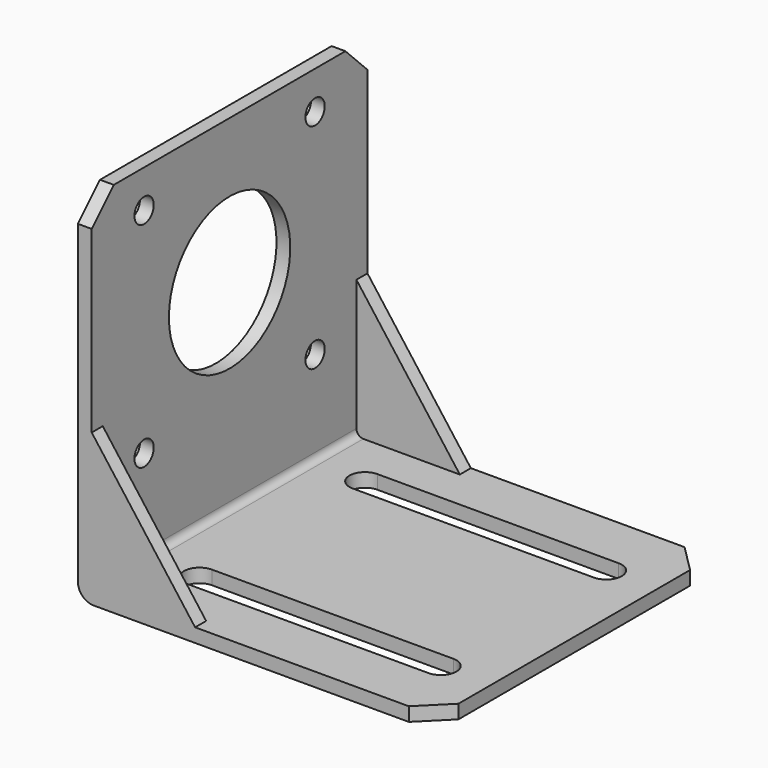
from build123d import *

# Parameters (mm, degrees)
F1_DEPTH = 50
F3_DEPTH = 2
F5_DEPTH = 2
F7_DEPTH = 52.001
F8_R     = 11
F8_R_2   = 1.75
F9_DEPTH = 52.001
F10_SIZE = 4


with BuildPart() as f1:
    # F0 (on Front) → F1 (new body)
    with BuildSketch(Plane.XZ):
        with BuildLine():
            Line((2, 52), (0, 52))
            Line((0, 52), (0, 2.292893))
            ThreePointArc((0, 2.292893), (0.671573, 0.671573), (2.292893, 0))
            Line((2.292893, 0), (52, 0))
            Line((52, 0), (52, 2))
            Line((52, 2), (3, 2))
            ThreePointArc((3, 2), (2.292893, 2.292893), (2, 3))
            Line((2, 3), (2, 52))
        make_face()
    extrude(amount=F1_DEPTH)

    # F2 (on face) → F3 (join)
    with BuildSketch(Plane.XZ.offset(50)):
        Polygon((17, 2), (2, 22), (2, 2), align=None)
    extrude(amount=-F3_DEPTH)

    # F4 (on face) → F5 (join)
    with BuildSketch(Plane(origin=(0, 0, 0), x_dir=(-1, 0, 0), z_dir=(0, 1, 0))):
        Polygon((-2, 2), (-2, 22), (-17, 2), align=None)
    extrude(amount=-F5_DEPTH)

    # F6 (on face) → F7 (cut, through all)
    with BuildSketch(Plane(origin=(0, 0, 0), x_dir=(1, 0, 0), z_dir=(0, 0, -1))):
        with BuildLine():
            Line((27.146447, 37.75), (44.646447, 37.75))
            ThreePointArc((44.646447, 37.75), (46.896447, 40), (44.646447, 42.25))
            Line((44.646447, 42.25), (27.146447, 42.25))
            Line((27.146447, 42.25), (9.646447, 42.25))
            ThreePointArc((9.646447, 42.25), (7.396447, 40), (9.646447, 37.75))
            Line((9.646447, 37.75), (27.146447, 37.75))
        make_face()
        with BuildLine():
            Line((27.146447, 12.25), (9.646447, 12.25))
            ThreePointArc((9.646447, 12.25), (7.396447, 10), (9.646447, 7.75))
            Line((9.646447, 7.75), (27.146447, 7.75))
            Line((27.146447, 7.75), (44.646447, 7.75))
            ThreePointArc((44.646447, 7.75), (46.896447, 10), (44.646447, 12.25))
            Line((44.646447, 12.25), (27.146447, 12.25))
        make_face()
    extrude(amount=-F7_DEPTH, mode=Mode.SUBTRACT)

    # F8 (on face) → F9 (cut, through all)
    with BuildSketch(Plane(origin=(0, 0, 0), x_dir=(0, -1, 0), z_dir=(-1, 0, 0))):
        with Locations((25, 31)):
            Circle(F8_R)
        with Locations((9.5, 46.5)):
            Circle(F8_R_2)
        with Locations((9.5, 15.5)):
            Circle(F8_R_2)
        with Locations((40.5, 15.5)):
            Circle(F8_R_2)
        with Locations((40.5, 46.5)):
            Circle(F8_R_2)
    extrude(amount=-F9_DEPTH, mode=Mode.SUBTRACT)

    # F10
    f10_edges = [f1.edges().sort_by_distance(p)[0] for p in [
        (1, 0, 52),
        (1, -50, 52),
        (52, 0, 1),
        (52, -50, 1),
    ]]
    chamfer(f10_edges, length=F10_SIZE)


solid = f1.part
